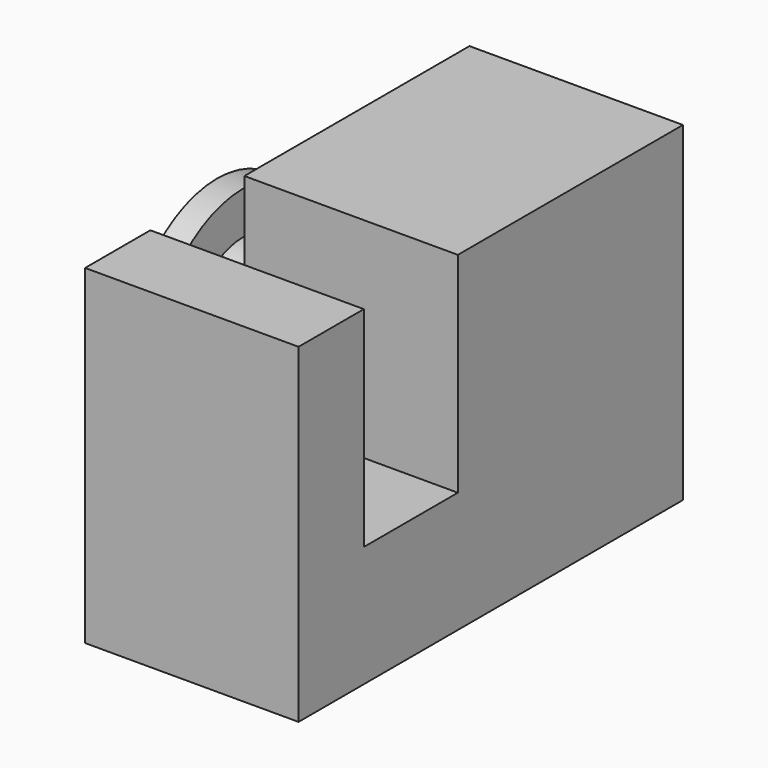
from build123d import *

# Parameters (mm, degrees)
F2_R     = 5
F3_DEPTH = 30
F5_DEPTH = 25


with BuildPart() as f1:
    # F0 (on Front) → F1 (revolve)
    with BuildSketch(Plane.XZ):
        Polygon((-22.083245, 12.95), (-22.083245, 0), (3.116755, 0), (3.116755, 12.95), (0.016755, 12.95), (0.016755, 7.95), (-18.983245, 7.95), (-18.983245, 12.95), align=None)
    revolve(axis=Axis((-7.986653, 0, 0), (-1, 0, 0)))

    # F2 (on face) → F3 (cut)
    with BuildSketch(Plane.YZ.offset(3.116755)):
        Circle(F2_R)
    extrude(amount=-F3_DEPTH, mode=Mode.SUBTRACT)

    # F4 (on Right) → F5 (join)
    with BuildSketch(Plane.YZ):
        Polygon((-37.379272, 29.986372), (-46.934061, 29.986372), (-46.934061, -8.687175), (9.331752, -8.687175), (9.331752, 29.986372), (-23.615412, 29.986372), (-23.615412, 5.463502), (-37.379272, 5.463502), align=None)
    extrude(amount=F5_DEPTH)


solid = f1.part
